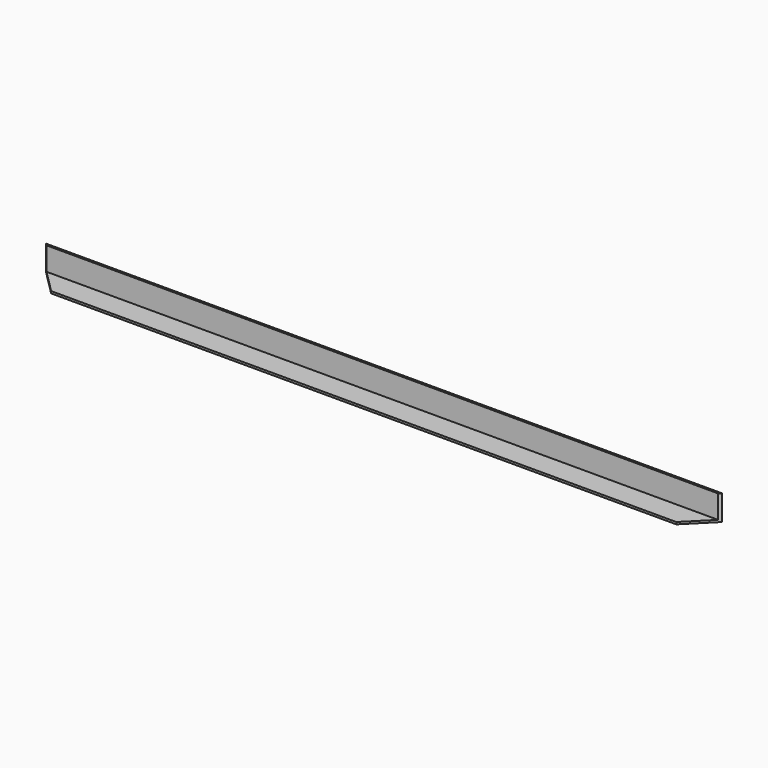
from build123d import *

# Parameters (mm, degrees)
F0_W     = 2032
F0_H     = 76.2
F1_DEPTH = 76.2
F2_W     = 2032
F2_H     = 69.85
F3_DEPTH = 69.85
F5_DEPTH = 76.2


with BuildPart() as f1:
    # F0 (on Top) → F1 (new body)
    with BuildSketch(Plane.XY):
        with Locations((-1016, 38.1)):
            Rectangle(F0_W, F0_H)
    extrude(amount=-F1_DEPTH)

    # F2 (on face) → F3 (cut)
    with BuildSketch(Plane.XY):
        with Locations((-1016, 34.925)):
            Rectangle(F2_W, F2_H)
    extrude(amount=-F3_DEPTH, mode=Mode.SUBTRACT)

    # F4 (on face) → F5 (cut)
    with BuildSketch(Plane.XY):
        Polygon((-1955.8, 0), (-2032, 76.2), (-2032, 0), align=None)
        Polygon((0, 76.2), (-76.2, 0), (0, 0), align=None)
    extrude(amount=-F5_DEPTH, mode=Mode.SUBTRACT)


solid = f1.part
